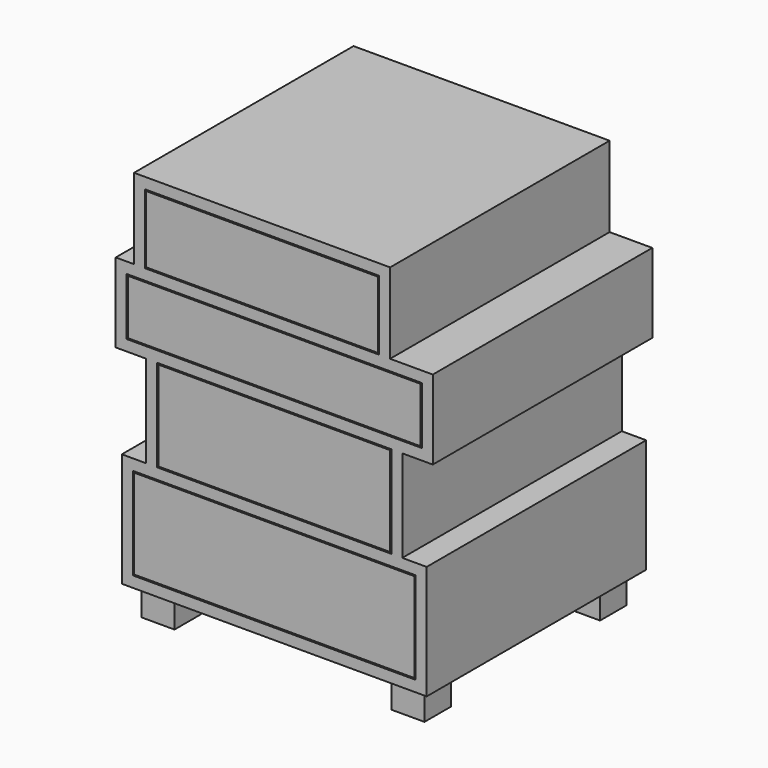
from build123d import *

# Parameters (mm, degrees)
F0_W     = 18
F0_H     = 114
F0_H_2   = 94
F0_H_3   = 151
F1_DEPTH = 450
F0_W_2   = 484
F0_W_3   = 384
F0_W_4   = 464
F2_DEPTH = 18
F3_W     = 480
F3_H     = 90
F4_DEPTH = 427
F3_W_2   = 380
F3_H_2   = 147
F3_W_3   = 460
F3_H_3   = 110
F5_T     = -18
F6_T     = -18
F7_T     = -18
F8_W     = 54
F8_H     = 54
F9_DEPTH = 50
F10_T    = -18


with BuildPart() as f1:
    # F0 (on Front) → F1 (new body)
    with BuildSketch(Plane.XZ):
        Polygon((-230, 468), (-260, 468), (-260, 450), (-242, 450), (242, 450), (260, 450), (260, 468), (190, 468), (172, 468), (-212, 468), align=None)
        with Locations((-221, 525)):
            Rectangle(F0_W, F0_H)
        with Locations((-251, 403)):
            Rectangle(F0_W, F0_H_2)
        Polygon((-230, 600), (-230, 582), (-212, 582), (172, 582), (190, 582), (190, 600), align=None)
        Polygon((-242, 356), (-260, 356), (-260, 338), (-210, 338), (-192, 338), (192, 338), (210, 338), (260, 338), (260, 356), (242, 356), align=None)
        with Locations((181, 525)):
            Rectangle(F0_W, F0_H)
        with Locations((251, 403)):
            Rectangle(F0_W, F0_H_2)
        with Locations((-201, 262.5)):
            Rectangle(F0_W, F0_H_3)
        Polygon((-192, 187), (-210, 187), (-250, 187), (-250, 169), (-232, 169), (232, 169), (250, 169), (250, 187), (210, 187), (192, 187), align=None)
        with Locations((201, 262.5)):
            Rectangle(F0_W, F0_H_3)
        with Locations((-241, 93.5)):
            Rectangle(F0_W, F0_H_3)
        Polygon((-232, 18), (-250, 18), (-250, 0), (250, 0), (250, 18), (232, 18), align=None)
        with Locations((241, 93.5)):
            Rectangle(F0_W, F0_H_3)
    extrude(amount=F1_DEPTH)

    # F0 (on Front) → F2 (join)
    with BuildSketch(Plane.XZ):
        with Locations((0, 403)):
            Rectangle(F0_W_2, F0_H_2)
        with Locations((0, 262.5)):
            Rectangle(F0_W_3, F0_H_3)
        with Locations((0, 93.5)):
            Rectangle(F0_W_4, F0_H_3)
    extrude(amount=F2_DEPTH)

    # F8 (on face) → F9 (join)
    with BuildSketch(Plane(origin=(0, 0, 0), x_dir=(1, 0, 0), z_dir=(0, 0, -1))):
        with Locations((-205, 405)):
            Rectangle(F8_W, F8_H)
        with Locations((205, 405)):
            Rectangle(F8_W, F8_H)
        with Locations((-205, 45)):
            Rectangle(F8_W, F8_H)
        with Locations((205, 45)):
            Rectangle(F8_W, F8_H)
    extrude(amount=F9_DEPTH)


with BuildPart() as f4:
    # F3 (on face) → F4 (new body, through all)
    with BuildSketch(Plane.XZ.offset(450)):
        with Locations((0, 403)):
            Rectangle(F3_W, F3_H)
    extrude(amount=-F4_DEPTH)

    # F5
    f5_openings = [f4.faces().sort_by_distance(p)[0] for p in [
        (0, -236.5, 448),
    ]]
    offset(amount=F5_T, openings=f5_openings)


with BuildPart() as f4b:
    # F3 (on face) → F4, piece 2 (new body, through all)
    with BuildSketch(Plane.XZ.offset(450)):
        with Locations((0, 262.5)):
            Rectangle(F3_W_2, F3_H_2)
    extrude(amount=-F4_DEPTH)

    # F6
    f6_openings = [f4b.faces().sort_by_distance(p)[0] for p in [
        (0, -236.5, 336),
    ]]
    offset(amount=F6_T, openings=f6_openings)


with BuildPart() as f4c:
    # F3 (on face) → F4, piece 3 (new body, through all)
    with BuildSketch(Plane.XZ.offset(450)):
        with Locations((0, 93.5)):
            Rectangle(F3_W_3, F3_H_2)
    extrude(amount=-F4_DEPTH)

    # F7
    f7_openings = [f4c.faces().sort_by_distance(p)[0] for p in [
        (0, -236.5, 167),
    ]]
    offset(amount=F7_T, openings=f7_openings)


with BuildPart() as f4d:
    # F3 (on face) → F4, piece 4 (new body, through all)
    with BuildSketch(Plane.XZ.offset(450)):
        with Locations((-20, 525)):
            Rectangle(F3_W_2, F3_H_3)
    extrude(amount=-F4_DEPTH)

    # F10
    f10_openings = [f4d.faces().sort_by_distance(p)[0] for p in [
        (-20, -236.5, 580),
    ]]
    offset(amount=F10_T, openings=f10_openings)


solid = Compound([f1.part, f4.part, f4b.part, f4c.part, f4d.part])
